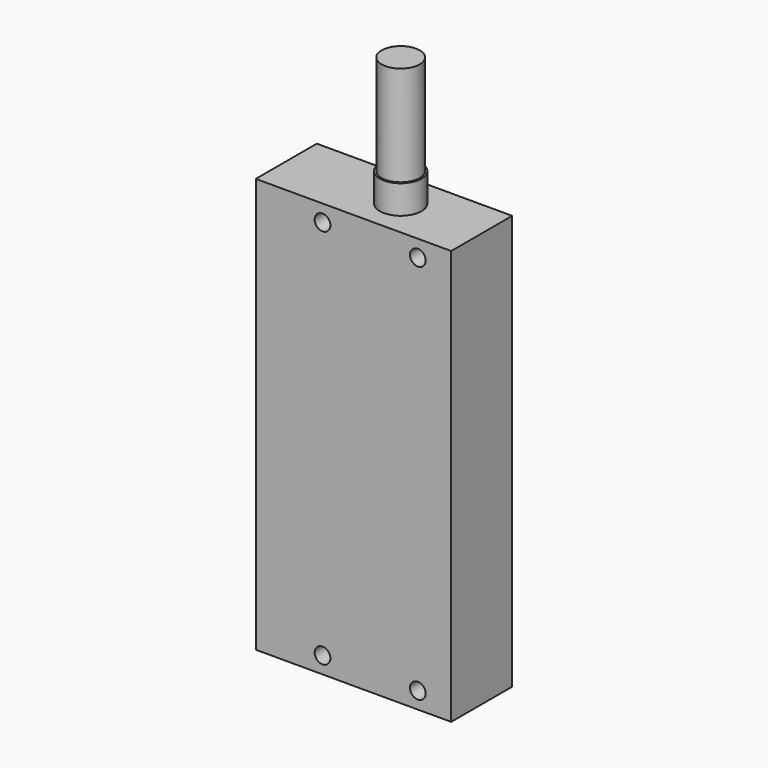
from build123d import *

# Parameters (mm, degrees)
F0_W     = 41
F0_H     = 87
F1_DEPTH = 16
F3_D     = 3.3
F3_DEPTH = 27.7
F3_TIP   = 0.9914200214
F4_R     = 4.375
F5_DEPTH = 6
F6_R     = 4
F7_DEPTH = 21


with BuildPart() as f1:
    # F0 (on Front) → F1 (new body)
    with BuildSketch(Plane.XZ):
        with Locations((20.5, 43.5)):
            Rectangle(F0_W, F0_H)
    extrude(amount=F1_DEPTH)

    # F3
    with Locations(Plane.XZ.offset(16)):
        with Locations((14, 83.5), (34, 83.5), (14, 3.5), (34, 3.5)):
            Hole(F3_D / 2, depth=F3_DEPTH)
            with Locations((0, 0, -(F3_DEPTH + F3_TIP / 2))):  # 118° drill point
                Cone(0, F3_D / 2, F3_TIP, mode=Mode.SUBTRACT)

    # F4 (on face) → F5 (join)
    with BuildSketch(Plane.XY.offset(87)):
        with Locations((24, -8)):
            Circle(F4_R)
    extrude(amount=F5_DEPTH)

    # F6 (on face) → F7 (join)
    with BuildSketch(Plane.XY.offset(93)):
        with Locations((24, -8)):
            Circle(F6_R)
    extrude(amount=F7_DEPTH)


solid = f1.part
